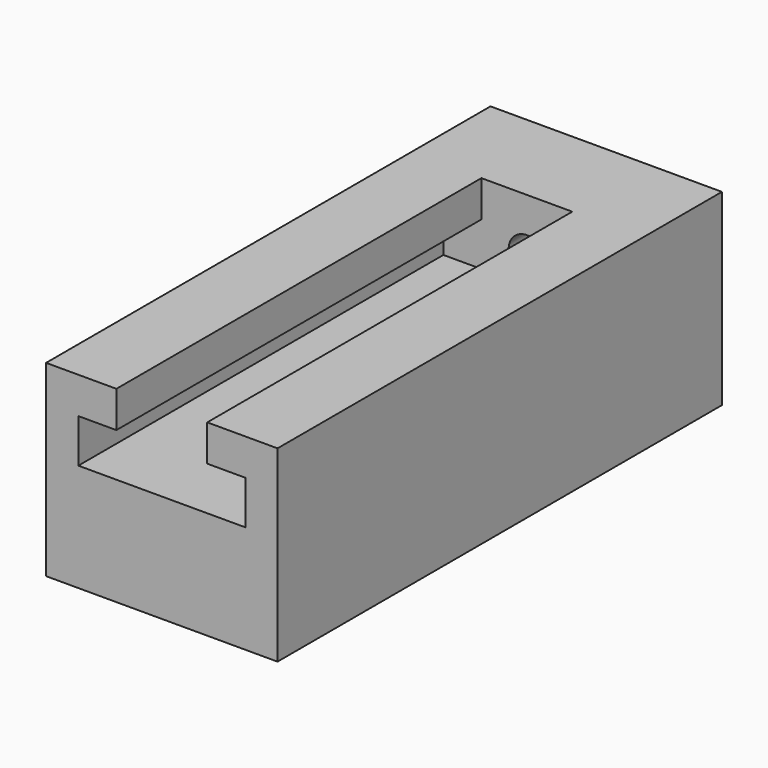
from build123d import *

# Parameters (mm, degrees)
F0_W     = 35
F0_H     = 39.2
F1_DEPTH = 84
F3_DEPTH = 69
F5_D     = 5.5
F6_W     = 35
F6_H     = 10.8
F7_DEPTH = 84.001


with BuildPart() as f1:
    # F0 (on Front) → F1 (new body)
    with BuildSketch(Plane.XZ):
        Rectangle(F0_W, F0_H)
    extrude(amount=F1_DEPTH)

    # F2 (on face) → F3 (cut)
    with BuildSketch(Plane.XZ.offset(84)):
        Polygon((12.62, -3.3), (12.62, 3.3), (6.8694977982, 3.3), (6.8694977982, 8.8), (-6.8694977982, 8.8), (-6.8694977982, 3.3), (-12.62, 3.3), (-12.62, -3.3), align=None)
    extrude(amount=-F3_DEPTH, mode=Mode.SUBTRACT)

    # F5 (through all)
    with Locations(Plane(origin=(0, 0, 0), x_dir=(-1, 0, 0), z_dir=(0, 1, 0))):
        with Locations((0, 0.7)):
            Hole(F5_D / 2)

    # F6 (on face) → F7 (cut, through all)
    with BuildSketch(Plane.XZ.offset(84)):
        with Locations((0, 14.2)):
            Rectangle(F6_W, F6_H)
    extrude(amount=-F7_DEPTH, mode=Mode.SUBTRACT)


solid = f1.part
